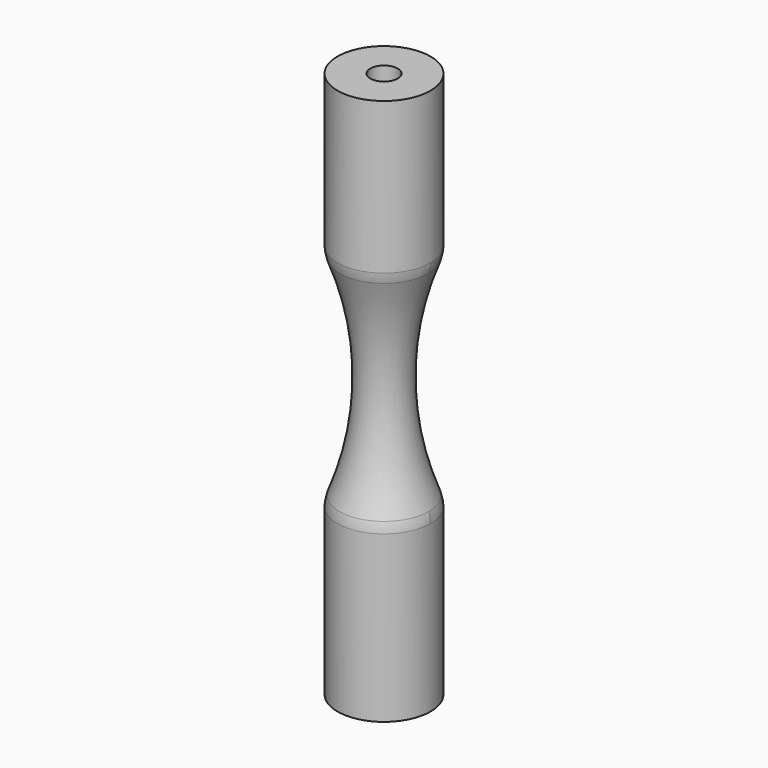
from build123d import *

# Parameters (mm, degrees)
F0_R     = 43.18
F1_DEPTH = 508
F4_R     = 25.4
F5_R     = 12.7
F6_DEPTH = 508.001


with BuildPart() as f1:
    # F0 (on Top) → F1 (new body)
    with BuildSketch(Plane.XY):
        Circle(F0_R)
    extrude(amount=F1_DEPTH)

    # F2 (on Front) → F3 (revolve, cut)
    with BuildSketch(Plane.XZ):
        with BuildLine():
            Line((-384.330451, 258.428335), (-98.216951, 75.272329))
            ThreePointArc((-98.216951, 75.272329), (-22.933279, 256.891851), (-93.24689, 440.492717))
            Line((-93.24689, 440.492717), (-384.330451, 258.428335))
        make_face()
    revolve(axis=Axis((0, 0, 0), (0, 0, -1)), mode=Mode.SUBTRACT)

    # F4
    f4_edges = [f1.edges().sort_by_distance(p)[0] for p in [
        (0, -43.18, 158.762324),
        (0, 43.18, 158.762324),
        (-22.908703, 0, 260.503948),
        (0, 43.18, 362.245572),
        (0, -43.18, 362.245572),
    ]]
    fillet(f4_edges, radius=F4_R)

    # F5 (on face) → F6 (cut, through all)
    with BuildSketch(Plane(origin=(0, 0, 0), x_dir=(1, 0, 0), z_dir=(0, 0, -1))):
        Circle(F5_R)
    extrude(amount=-F6_DEPTH, mode=Mode.SUBTRACT)


solid = f1.part
